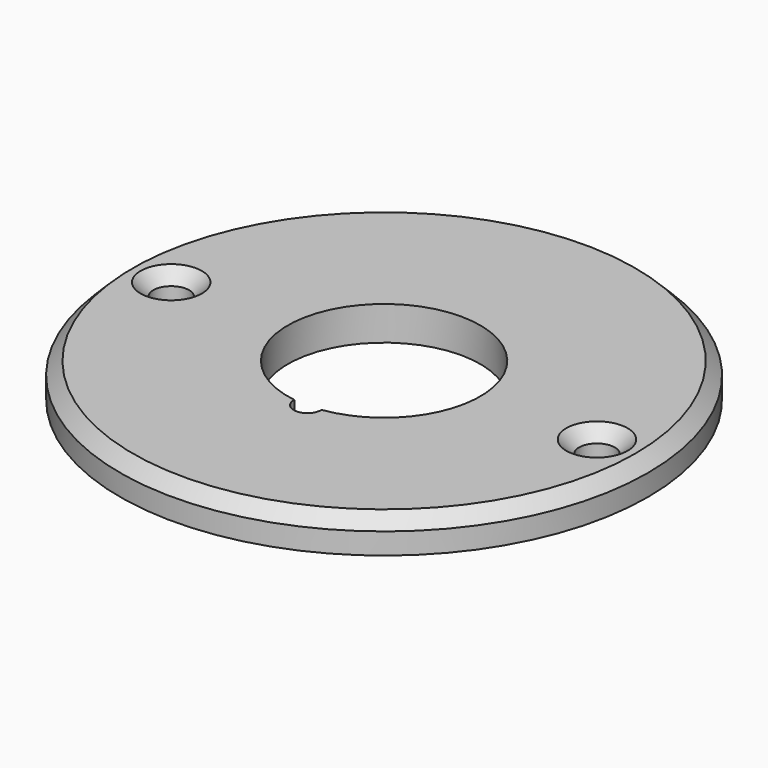
from build123d import *

# Parameters (mm, degrees)
SKETCH_R           = 31
PAD_DEPTH          = 4
SKETCH002_R        = 11.3
POCKET001_DEPTH    = 4.001
SKETCH004_R        = 2.1
POCKET002_DEPTH    = 179.545866
SKETCH005_R        = 1.6
POCKET003_DEPTH    = 4.001
POLARPATTERN_COUNT = 2
CHAMFER_SIZE       = 1.5
CHAMFER001_SIZE    = 1.5


with BuildPart() as part:
    # Sketch → Pad (new body)
    with BuildSketch(Plane.XY):
        Circle(SKETCH_R)
    extrude(amount=PAD_DEPTH)

    # Sketch002 (on Face3 of Pad) → Pocket001 (cut, through all)
    with BuildSketch(Plane.XY.offset(4)):
        Circle(SKETCH002_R)
    extrude(amount=-POCKET001_DEPTH, mode=Mode.SUBTRACT)

    # Sketch004 (on Face3 of Pocket001) → Pocket002 (cut, through all)
    with BuildSketch(Plane.XY.offset(4)):
        with Locations((-25, 0)):
            Circle(SKETCH004_R)
    pocket002 = extrude(amount=-POCKET002_DEPTH, mode=Mode.SUBTRACT)

    # Sketch005 → Pocket003 (cut, through all)
    with BuildSketch(Plane(origin=(0, 0, 0), x_dir=(1, 0, 0), z_dir=(0, 0, -1))):
        with Locations((0, 11.25)):
            Circle(SKETCH005_R)
    extrude(amount=-POCKET003_DEPTH, mode=Mode.SUBTRACT)

    # PolarPattern: Pocket002 ×2 about axis
    polarpattern_axis = Axis((0, 0, 4), (0, 0, 1))
    for i in range(1, POLARPATTERN_COUNT):
        add(pocket002.rotate(polarpattern_axis, i * 360 / POLARPATTERN_COUNT), mode=Mode.SUBTRACT)

    # Chamfer
    chamfer_edges = [part.edges().sort_by_distance(p)[0] for p in [
        (-31, 0, 4),
    ]]
    chamfer(chamfer_edges, length=CHAMFER_SIZE)

    # Chamfer001
    chamfer001_edges = [part.edges().sort_by_distance(p)[0] for p in [
        (27.1, 0, 4),
        (-27.1, 0, 4),
    ]]
    chamfer(chamfer001_edges, length=CHAMFER001_SIZE)


solid = part.part
